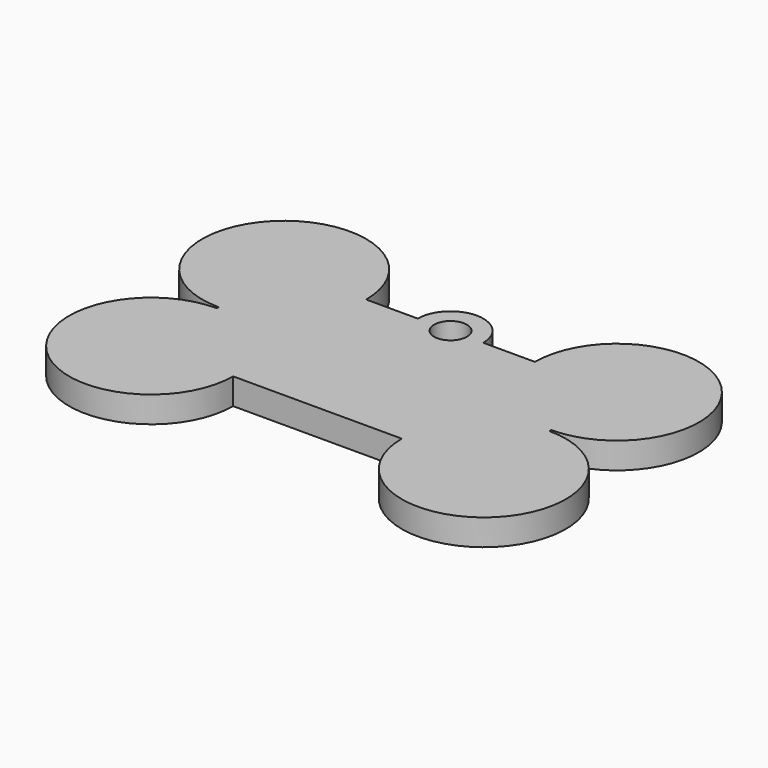
from build123d import *

# Parameters (mm, degrees)
F0_R     = 2.5
F1_DEPTH = 4


with BuildPart() as f1:
    # F0 (on Top) → F1 (new body)
    with BuildSketch(Plane.XY):
        with BuildLine():
            Line((-12.856996, -12.678498), (12.856996, -12.678498))
            ThreePointArc((12.856996, -12.678498), (34.195831, -21.517333), (25.356996, -0.178498))
            Line((25.356996, -0.178498), (25.356996, 0.178498))
            ThreePointArc((25.356996, 0.178498), (34.195831, 21.517333), (12.856996, 12.678498))
            Line((12.856996, 12.678498), (5, 12.678498))
            ThreePointArc((5, 12.678498), (0, 17.678498), (-5, 12.678498))
            Line((-5, 12.678498), (-12.856996, 12.678498))
            ThreePointArc((-12.856996, 12.678498), (-34.195831, 21.517333), (-25.356996, 0.178498))
            Line((-25.356996, 0.178498), (-25.356996, -0.178498))
            ThreePointArc((-25.356996, -0.178498), (-34.195831, -21.517333), (-12.856996, -12.678498))
        make_face()
        with Locations((0, 12.678498)):
            Circle(F0_R, mode=Mode.SUBTRACT)
    extrude(amount=F1_DEPTH)


solid = f1.part
